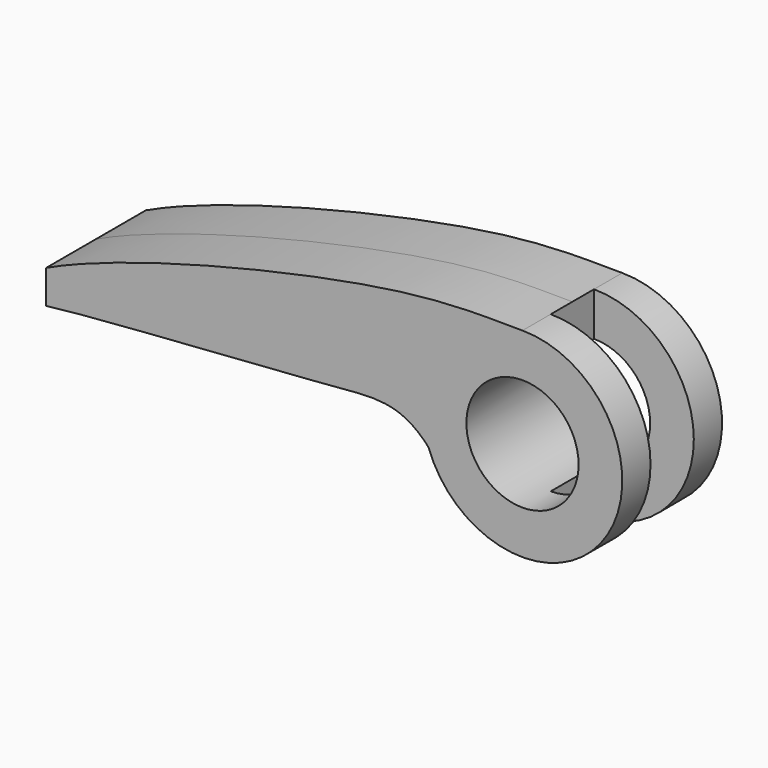
from build123d import *

# Parameters (mm, degrees)
F0_R     = 4.49961
F1_DEPTH = 4.99999
F2_W     = 8.8864957233
F2_H     = 4.3381056748
F3_DEPTH = 12.7


with BuildPart() as f1:
    # F0 (on Front) → F1 (new body, symmetric)
    with BuildSketch(Plane.XZ):
        with BuildLine():
            add(Edge.make_bspline(
                [(-38.20033, -2.6800008491), (-33.8028298231, -2.1272893085), (-14.7098983018, -1.0147738741), (-9.783067762, -0.2770660699), (-7.538806036, -2.6800008491)],
                knots=[0, 0, 0, 0, 0.6267741008, 1, 1, 1, 1], degree=3))
            ThreePointArc((-7.538806036, -2.6800008491), (6.5367686128, -4.6137465365), (0, 8.001))
            add(Edge.make_bspline(
                [(0, 8.001), (-2.824226835, 8.001), (-10.3104885626, 8.3707128448), (-31.9318765158, 3.0038253074), (-38.20033, 0)],
                knots=[0, 0, 0, 0, 0.3766012457, 1, 1, 1, 1], degree=3))
            Line((-38.20033, 0), (-38.20033, -2.6800008491))
        make_face()
        Circle(F0_R, mode=Mode.SUBTRACT)
    extrude(amount=F1_DEPTH, both=True)

    # F2 (on Top) → F3 (cut, symmetric)
    with BuildSketch(Plane.XY):
        with Locations((4.4432478617, 0)):
            Rectangle(F2_W, F2_H)
    extrude(amount=F3_DEPTH, both=True, mode=Mode.SUBTRACT)


solid = f1.part
